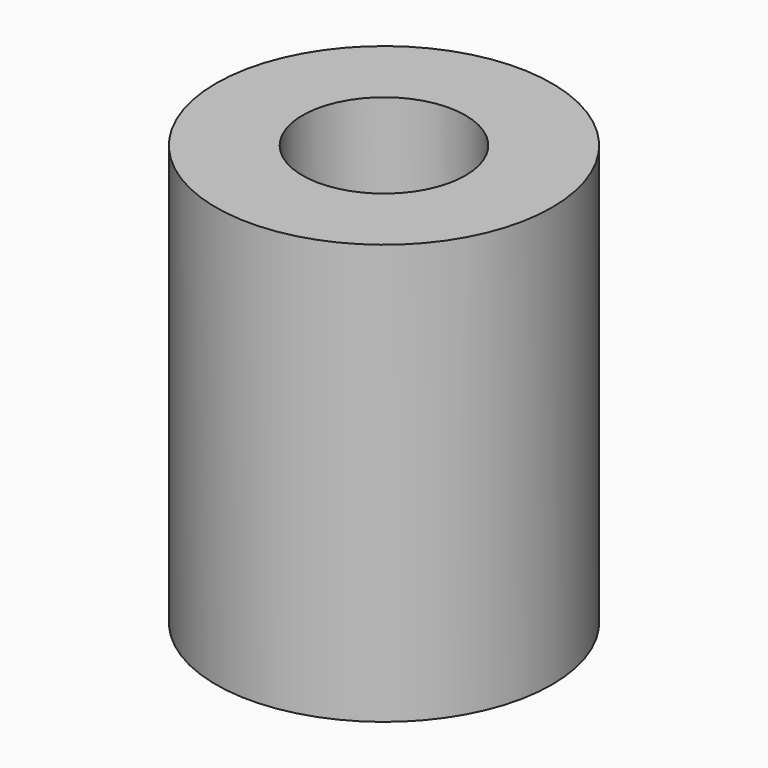
from build123d import *

# Parameters (mm, degrees)
CYLINDER_R     = 9.7
CYLINDER_DEPTH = 50
TUBE_R         = 20
TUBE_R_2       = 7.5
TUBE_DEPTH     = 50


with BuildPart() as bearing_hole_cutter:
    # Cylinder → Cylinder (new body)
    with BuildSketch(Plane.XY.offset(14)):
        Circle(CYLINDER_R)
    extrude(amount=CYLINDER_DEPTH)


with BuildPart() as cut:
    # Tube → Tube (new body)
    with BuildSketch(Plane.XY):
        Circle(TUBE_R)
        Circle(TUBE_R_2, mode=Mode.SUBTRACT)
    extrude(amount=TUBE_DEPTH)

    # Cut: cut Bearing Hole cutter
    add(bearing_hole_cutter.part, mode=Mode.SUBTRACT)


solid = cut.part
